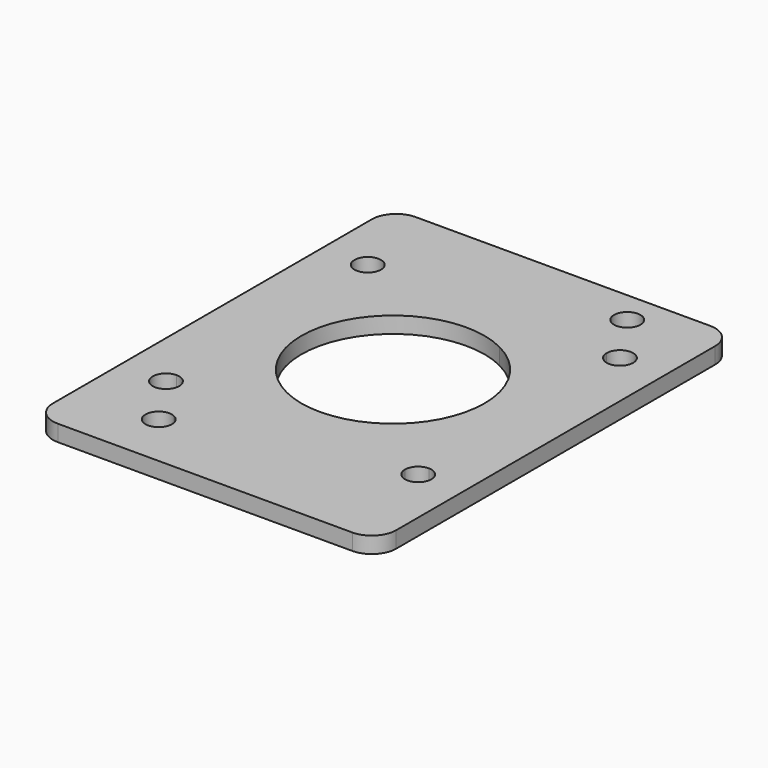
from build123d import *

# Parameters (mm, degrees)
F0_W     = 42.2
F0_H     = 55
F1_DEPTH = 2
F2_R     = 3


with BuildPart() as f1:
    # F0 (on Top) → F1 (new body)
    with BuildSketch(Plane.XY):
        with Locations((21.1, 27.5)):
            Rectangle(F0_W, F0_H)
        with BuildLine():
            ThreePointArc((11.625, 6.7573734957), (8.6170854504, 5.9040433436), (10.7287878788, 8.2097829516))
            ThreePointArc((10.7287878788, 8.2097829516), (11.3829145496, 7.6107036478), (11.625, 6.7573734957))
        make_face(mode=Mode.SUBTRACT)
        with BuildLine():
            Line((7.225, 44.3786867478), (28.8775671832, 44.3786867478))
            Line((28.8775671832, 44.3786867478), (34.975, 44.3786867478))
            ThreePointArc((34.975, 44.3786867478), (36.6, 46.0036867478), (38.225, 44.3786867478))
            ThreePointArc((38.225, 44.3786867478), (37.7490485194, 43.2296382284), (36.6, 42.7536867478))
            Line((36.6, 42.7536867478), (36.6, 15.0036867478))
            ThreePointArc((36.6, 15.0036867478), (37.7490485194, 14.5277352673), (38.225, 13.3786867478))
            ThreePointArc((38.225, 13.3786867478), (36.6, 11.7536867478), (34.975, 13.3786867478))
            Line((34.975, 13.3786867478), (13.3224328168, 13.3786867478))
            Line((13.3224328168, 13.3786867478), (7.225, 13.3786867478))
            ThreePointArc((7.225, 13.3786867478), (4.4509514806, 12.2296382284), (5.6, 15.0036867478))
            Line((5.6, 15.0036867478), (5.6, 42.7536867478))
            ThreePointArc((5.6, 42.7536867478), (4.4509514806, 45.5277352673), (7.225, 44.3786867478))
        make_face(mode=Mode.SUBTRACT)
        with BuildLine():
            ThreePointArc((31.4712121212, 49.5475905441), (31.3466698479, 52.3829145496), (33.825, 51))
            ThreePointArc((33.825, 51), (33.0533301521, 49.6170854504), (31.4712121212, 49.5475905441))
        make_face(mode=Mode.SUBTRACT)
        with BuildLine():
            Line((26.1454545455, 38.9338291352), (28.8775671832, 44.3786867478))
            Line((28.8775671832, 44.3786867478), (7.225, 44.3786867478))
            ThreePointArc((7.225, 44.3786867478), (6.7490485194, 43.2296382284), (5.6, 42.7536867478))
            Line((5.6, 42.7536867478), (5.6, 15.0036867478))
            ThreePointArc((5.6, 15.0036867478), (6.7490485194, 14.5277352673), (7.225, 13.3786867478))
            Line((7.225, 13.3786867478), (13.3224328168, 13.3786867478))
            Line((13.3224328168, 13.3786867478), (16.0545454545, 18.8235443605))
            ThreePointArc((16.0545454545, 18.8235443605), (11.0448576127, 33.9241412933), (26.1454545455, 38.9338291352))
        make_face()
        with BuildLine():
            Line((34.975, 44.3786867478), (28.8775671832, 44.3786867478))
            Line((28.8775671832, 44.3786867478), (26.1454545455, 38.9338291352))
            ThreePointArc((26.1454545455, 38.9338291352), (30.674023805, 34.7863570316), (32.35, 28.8786867478))
            ThreePointArc((32.35, 28.8786867478), (27.0076702838, 19.3046629429), (16.0545454545, 18.8235443605))
            Line((16.0545454545, 18.8235443605), (13.3224328168, 13.3786867478))
            Line((13.3224328168, 13.3786867478), (34.975, 13.3786867478))
            ThreePointArc((34.975, 13.3786867478), (35.4509514806, 14.5277352673), (36.6, 15.0036867478))
            Line((36.6, 15.0036867478), (36.6, 42.7536867478))
            ThreePointArc((36.6, 42.7536867478), (35.4509514806, 43.2296382284), (34.975, 44.3786867478))
        make_face()
    extrude(amount=F1_DEPTH)

    # F2
    f2_edges = [f1.edges().sort_by_distance(p)[0] for p in [
        (42.2, 55, 1),
        (0, 55, 1),
        (0, 0, 1),
        (42.2, 0, 1),
    ]]
    fillet(f2_edges, radius=F2_R)


solid = f1.part
